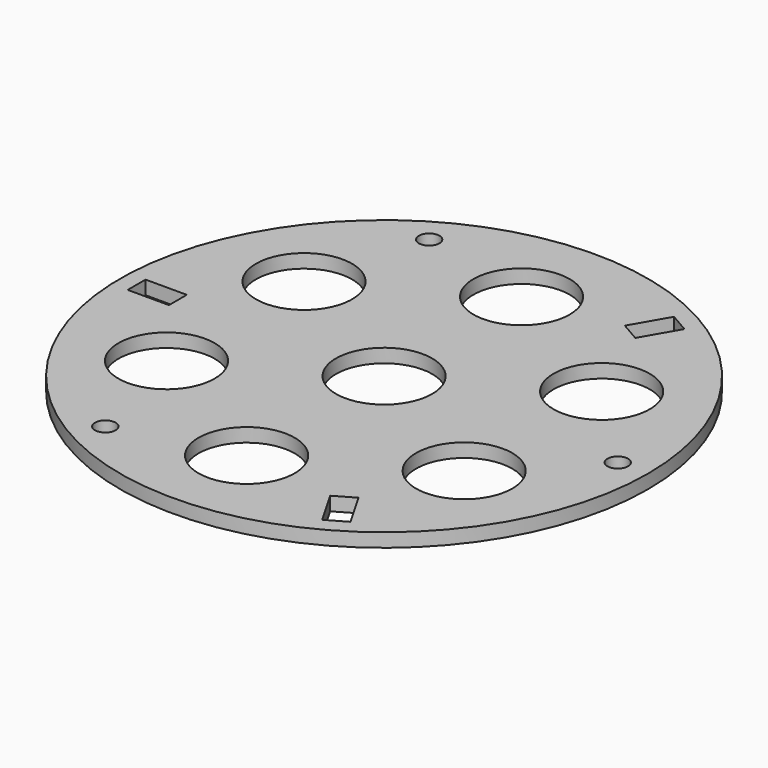
from build123d import *

# Parameters (mm, degrees)
CYLINDER_R            = 38.4
CYLINDER_DEPTH        = 2
SKETCH_R              = 1.5
POCKET_DEPTH          = 217.261029
POCKET_DEPTH_BACK     = 219.261029
POLARPATTERN_COUNT    = 3
SKETCH001_R           = 7
POCKET001_DEPTH       = 0.001
POCKET001_DEPTH_BACK  = 2.001
SKETCH002_R           = 7
POCKET002_DEPTH       = 217.261029
POCKET002_DEPTH_BACK  = 219.261029
POLARPATTERN001_COUNT = 6
SKETCH003_W           = 6
SKETCH003_H           = 3.25
POCKET003_DEPTH       = 217.261029
POCKET003_DEPTH_BACK  = 219.261029
POLARPATTERN002_COUNT = 3


with BuildPart() as part:
    # Cylinder → Cylinder (new body)
    with BuildSketch(Plane.XY):
        Circle(CYLINDER_R)
    extrude(amount=CYLINDER_DEPTH)

    # Sketch → Pocket (cut, two sides)
    with BuildSketch(Plane(origin=(34, 0, 0), x_dir=(1, 0, 0), z_dir=(0, 0, 1))) as pocket_sk:
        Circle(SKETCH_R)
    pocket = extrude(amount=-POCKET_DEPTH, mode=Mode.SUBTRACT) + extrude(pocket_sk.sketch, amount=POCKET_DEPTH_BACK, mode=Mode.SUBTRACT)

    # PolarPattern: Pocket ×3 about axis
    polarpattern_axis = Axis((0, 0, 0), (0, 0, 1))
    for i in range(1, POLARPATTERN_COUNT):
        add(pocket.rotate(polarpattern_axis, i * 360 / POLARPATTERN_COUNT), mode=Mode.SUBTRACT)

    # Sketch001 → Pocket001 (cut, two sides)
    with BuildSketch(Plane.XY) as pocket001_sk:
        Circle(SKETCH001_R)
    extrude(amount=-POCKET001_DEPTH, mode=Mode.SUBTRACT)
    extrude(pocket001_sk.sketch, amount=POCKET001_DEPTH_BACK, mode=Mode.SUBTRACT)

    # Sketch002 → Pocket002 (cut, two sides)
    with BuildSketch(Plane(origin=(0, 25, 0), x_dir=(1, 0, 0), z_dir=(0, 0, 1))) as pocket002_sk:
        Circle(SKETCH002_R)
    pocket002 = extrude(amount=-POCKET002_DEPTH, mode=Mode.SUBTRACT) + extrude(pocket002_sk.sketch, amount=POCKET002_DEPTH_BACK, mode=Mode.SUBTRACT)

    # PolarPattern001: Pocket002 ×6 about axis
    polarpattern001_axis = Axis((0, 0, 0), (0, 0, 1))
    for i in range(1, POLARPATTERN001_COUNT):
        add(pocket002.rotate(polarpattern001_axis, i * 360 / POLARPATTERN001_COUNT), mode=Mode.SUBTRACT)

    # Sketch003 → Pocket003 (cut, two sides)
    with BuildSketch(Plane(origin=(-33, 0, 0), x_dir=(1, 0, 0), z_dir=(0, 0, 1))) as pocket003_sk:
        Rectangle(SKETCH003_W, SKETCH003_H)
    pocket003 = extrude(amount=-POCKET003_DEPTH, mode=Mode.SUBTRACT) + extrude(pocket003_sk.sketch, amount=POCKET003_DEPTH_BACK, mode=Mode.SUBTRACT)

    # PolarPattern002: Pocket003 ×3 about axis
    polarpattern002_axis = Axis((0, 0, 0), (0, 0, 1))
    for i in range(1, POLARPATTERN002_COUNT):
        add(pocket003.rotate(polarpattern002_axis, i * 360 / POLARPATTERN002_COUNT), mode=Mode.SUBTRACT)


solid = part.part
